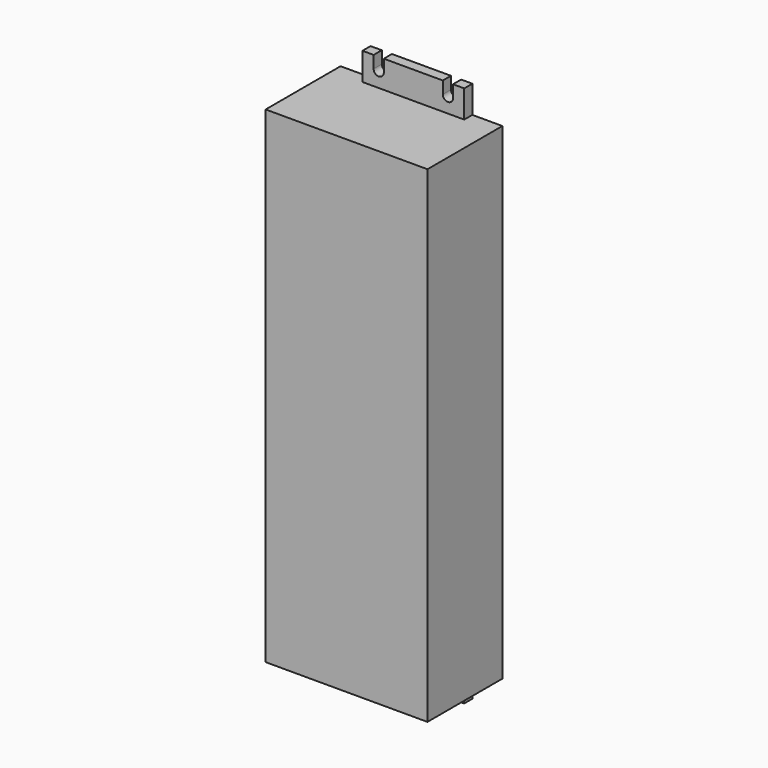
from build123d import *

# Parameters (mm, degrees)
F1_DEPTH = 5
F2_DEPTH = 46


with BuildPart() as f1:
    # F0 (on Front) → F1 (new body)
    with BuildSketch(Plane.XZ):
        with BuildLine():
            Line((0, 119.5), (25, 119.5))
            Line((25, 119.5), (25, 133))
            Line((25, 133), (19.5, 133))
            Line((19.5, 133), (19.5, 127))
            ThreePointArc((19.5, 127), (17, 124.5), (14.5, 127))
            Line((14.5, 127), (14.5, 133))
            Line((14.5, 133), (0, 133))
            Line((0, 133), (-14.5, 133))
            Line((-14.5, 133), (-14.5, 127))
            ThreePointArc((-14.5, 127), (-17, 124.5), (-19.5, 127))
            Line((-19.5, 127), (-19.5, 133))
            Line((-19.5, 133), (-25, 133))
            Line((-25, 133), (-25, 119.5))
            Line((-25, 119.5), (0, 119.5))
        make_face()
    extrude(amount=F1_DEPTH)



with BuildPart() as f1b:
    # F0 (on Front) → F1, piece 2 (new body)
    with BuildSketch(Plane.XZ):
        with BuildLine():
            Line((25, -133), (25, -119.5))
            Line((25, -119.5), (0, -119.5))
            Line((0, -119.5), (-25, -119.5))
            Line((-25, -119.5), (-25, -133))
            Line((-25, -133), (-19.5, -133))
            Line((-19.5, -133), (-19.5, -127))
            ThreePointArc((-19.5, -127), (-17, -124.5), (-14.5, -127))
            Line((-14.5, -127), (-14.5, -133))
            Line((-14.5, -133), (0, -133))
            Line((0, -133), (14.5, -133))
            Line((14.5, -133), (14.5, -127))
            ThreePointArc((14.5, -127), (17, -124.5), (19.5, -127))
            Line((19.5, -127), (19.5, -133))
            Line((19.5, -133), (25, -133))
        make_face()
    extrude(amount=F1_DEPTH)


with BuildPart() as f1_1:
    add(f1.part)

    add(f1b.part)  # F2 merges F1b
    # F0 (on Front) → F2 (join)
    with BuildSketch(Plane.XZ):
        Polygon((39.75, -119.5), (39.75, 0), (39.75, 119.5), (25, 119.5), (0, 119.5), (-25, 119.5), (-39.75, 119.5), (-39.75, 0), (-39.75, -119.5), (-25, -119.5), (0, -119.5), (25, -119.5), align=None)
    extrude(amount=F2_DEPTH)


solid = f1_1.part
